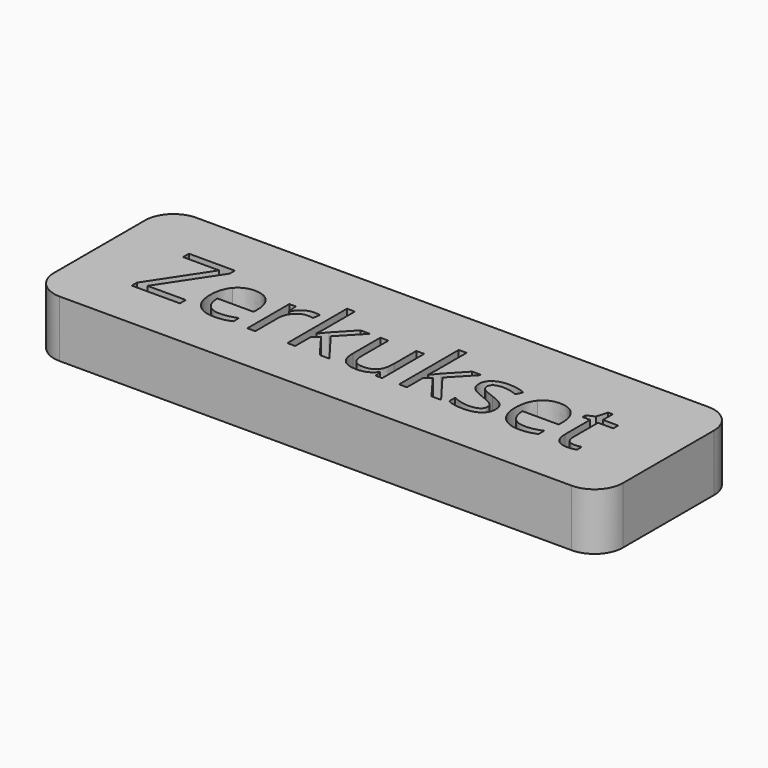
from build123d import *

# Parameters (mm, degrees)
F0_W     = 100
F0_H     = 30
F1_DEPTH = 10
F2_R     = 5
F3_R     = 5


with BuildPart() as f1:
    # F0 (on Top) → F1 (new body)
    with BuildSketch(Plane.XY):
        with Locations((1.7836652696, 33.731531068)):
            Rectangle(F0_W, F0_H)
        Polygon((-29.0621595022, 28.7384054739), (-29.0621595022, 27.4422152223), (-37.52647048, 27.4422152223), (-37.52647048, 28.5632446291), (-30.9916235774, 38.4665693167), (-37.3243618129, 38.4665693167), (-37.3243618129, 39.7546752216), (-29.2480994759, 39.7546752216), (-29.2480994759, 38.6336458148), (-35.7829463786, 28.7384054739), align=None, mode=Mode.SUBTRACT)
        with BuildLine():
            add(Edge.make_bspline(
                [(-21.3955040638, 27.4125726178), (-22.0557257096, 27.2724439419), (-22.9908151427, 27.2724439419)],
                knots=[0, 0, 0, 1, 1, 1], degree=2))
            add(Edge.make_bspline(
                [(-22.9908151427, 27.2724439419), (-25.0361548537, 27.2724439419), (-26.2205116428, 28.5201281135)],
                knots=[0, 0, 0, 1, 1, 1], degree=2))
            add(Edge.make_bspline(
                [(-26.2205116428, 28.5201281135), (-27.404868432, 29.767812285), (-27.404868432, 31.9802284941)],
                knots=[0, 0, 0, 1, 1, 1], degree=2))
            add(Edge.make_bspline(
                [(-27.404868432, 31.9802284941), (-27.404868432, 34.214202961), (-26.305397283, 35.5279092971)],
                knots=[0, 0, 0, 1, 1, 1], degree=2))
            add(Edge.make_bspline(
                [(-26.305397283, 35.5279092971), (-25.205926134, 36.8416156333), (-23.3519159612, 36.8416156333)],
                knots=[0, 0, 0, 1, 1, 1], degree=2))
            add(Edge.make_bspline(
                [(-23.3519159612, 36.8416156333), (-21.6191709887, 36.8416156333), (-20.6086276532, 35.7003753597)],
                knots=[0, 0, 0, 1, 1, 1], degree=2))
            add(Edge.make_bspline(
                [(-20.6086276532, 35.7003753597), (-19.5980843177, 34.5591350862), (-19.5980843177, 32.68895622)],
                knots=[0, 0, 0, 1, 1, 1], degree=2))
            Line((-19.5980843177, 32.68895622), (-19.5980843177, 31.8050676493))
            Line((-19.5980843177, 31.8050676493), (-25.9550755934, 31.8050676493))
            add(Edge.make_bspline(
                [(-25.9550755934, 31.8050676493), (-25.9119590777, 30.1801139659), (-25.1331670139, 29.3379945196)],
                knots=[0, 0, 0, 1, 1, 1], degree=2))
            add(Edge.make_bspline(
                [(-25.1331670139, 29.3379945196), (-24.35437495, 28.4958750734), (-22.9396142804, 28.4958750734)],
                knots=[0, 0, 0, 1, 1, 1], degree=2))
            add(Edge.make_bspline(
                [(-22.9396142804, 28.4958750734), (-21.4493997083, 28.4958750734), (-19.9942173053, 29.1183697681)],
                knots=[0, 0, 0, 1, 1, 1], degree=2))
            Line((-19.9942173053, 29.1183697681), (-19.9942173053, 27.8706855965))
            add(Edge.make_bspline(
                [(-19.9942173053, 27.8706855965), (-20.7352824179, 27.5527012936), (-21.3955040638, 27.4125726178)],
                knots=[0, 0, 0, 1, 1, 1], degree=2))
        make_face(mode=Mode.SUBTRACT)
        with BuildLine():
            add(Edge.make_bspline(
                [(-14.5938737205, 36.3525126589), (-13.8689773012, 36.8416156333), (-13.0012574238, 36.8416156333)],
                knots=[0, 0, 0, 1, 1, 1], degree=2))
            add(Edge.make_bspline(
                [(-13.0012574238, 36.8416156333), (-12.3868470759, 36.8416156333), (-11.8990914926, 36.7392139086)],
                knots=[0, 0, 0, 1, 1, 1], degree=2))
            Line((-11.8990914926, 36.7392139086), (-12.093115813, 35.443023657))
            add(Edge.make_bspline(
                [(-12.093115813, 35.443023657), (-12.6644096453, 35.5696784217), (-13.1036591485, 35.5696784217)],
                knots=[0, 0, 0, 1, 1, 1], degree=2))
            add(Edge.make_bspline(
                [(-13.1036591485, 35.5696784217), (-14.2246885553, 35.5696784217), (-15.0196493125, 34.6601894198)],
                knots=[0, 0, 0, 1, 1, 1], degree=2))
            add(Edge.make_bspline(
                [(-15.0196493125, 34.6601894198), (-15.8146100698, 33.7507004178), (-15.8146100698, 32.3952249572)],
                knots=[0, 0, 0, 1, 1, 1], degree=2))
            Line((-15.8146100698, 32.3952249572), (-15.8146100698, 27.4422152223))
            Line((-15.8146100698, 27.4422152223), (-17.213202046, 27.4422152223))
            Line((-17.213202046, 27.4422152223), (-17.213202046, 36.6718443529))
            Line((-17.213202046, 36.6718443529), (-16.0598352525, 36.6718443529))
            Line((-16.0598352525, 36.6718443529), (-15.8981483188, 34.9633524204))
            Line((-15.8981483188, 34.9633524204), (-15.8307787631, 34.9633524204))
            add(Edge.make_bspline(
                [(-15.8307787631, 34.9633524204), (-15.3187701398, 35.8634096845), (-14.5938737205, 36.3525126589)],
                knots=[0, 0, 0, 1, 1, 1], degree=2))
        make_face(mode=Mode.SUBTRACT)
        with BuildLine():
            Line((-1.2196695234, 36.6718443529), (0.1950911463, 36.6718443529))
            Line((0.1950911463, 36.6718443529), (0.1950911463, 30.6840382425))
            add(Edge.make_bspline(
                [(0.1950911463, 30.6840382425), (0.1950911463, 29.554924489), (0.7084471607, 28.99979935)],
                knots=[0, 0, 0, 1, 1, 1], degree=2))
            add(Edge.make_bspline(
                [(0.7084471607, 28.99979935), (1.2218031751, 28.4446742111), (2.3158847596, 28.4446742111)],
                knots=[0, 0, 0, 1, 1, 1], degree=2))
            add(Edge.make_bspline(
                [(2.3158847596, 28.4446742111), (3.7656775982, 28.4446742111), (4.4339835908, 29.235592795)],
                knots=[0, 0, 0, 1, 1, 1], degree=2))
            add(Edge.make_bspline(
                [(4.4339835908, 29.235592795), (5.1022895833, 30.0265113789), (5.1022895833, 31.8212363427)],
                knots=[0, 0, 0, 1, 1, 1], degree=2))
            Line((5.1022895833, 31.8212363427), (5.1022895833, 36.6718443529))
            Line((5.1022895833, 36.6718443529), (6.5008815596, 36.6718443529))
            Line((6.5008815596, 36.6718443529), (6.5008815596, 27.4422152223))
            Line((6.5008815596, 27.4422152223), (5.347514766, 27.4422152223))
            Line((5.347514766, 27.4422152223), (5.1454060989, 28.6791202649))
            Line((5.1454060989, 28.6791202649), (5.0699521966, 28.6791202649))
            add(Edge.make_bspline(
                [(5.0699521966, 28.6791202649), (4.6414818223, 27.9973403613), (3.8788584518, 27.6348921516)],
                knots=[0, 0, 0, 1, 1, 1], degree=2))
            add(Edge.make_bspline(
                [(3.8788584518, 27.6348921516), (3.1162350813, 27.2724439419), (2.1380291326, 27.2724439419)],
                knots=[0, 0, 0, 1, 1, 1], degree=2))
            add(Edge.make_bspline(
                [(2.1380291326, 27.2724439419), (0.4537902401, 27.2724439419), (-0.3829396416, 28.0727942636)],
                knots=[0, 0, 0, 1, 1, 1], degree=2))
            add(Edge.make_bspline(
                [(-0.3829396416, 28.0727942636), (-1.2196695234, 28.8731445853), (-1.2196695234, 30.6328373801)],
                knots=[0, 0, 0, 1, 1, 1], degree=2))
            Line((-1.2196695234, 30.6328373801), (-1.2196695234, 36.6718443529))
        make_face(mode=Mode.SUBTRACT)
        with BuildLine():
            add(Edge.make_bspline(
                [(23.8930060585, 31.4843885642), (24.4696894553, 30.8780625629), (24.4696894553, 29.9591418232)],
                knots=[0, 0, 0, 1, 1, 1], degree=2))
            add(Edge.make_bspline(
                [(24.4696894553, 29.9591418232), (24.4696894553, 28.6710359182), (23.5103469821, 27.9717399301)],
                knots=[0, 0, 0, 1, 1, 1], degree=2))
            add(Edge.make_bspline(
                [(23.5103469821, 27.9717399301), (22.551004509, 27.2724439419), (20.8155647542, 27.2724439419)],
                knots=[0, 0, 0, 1, 1, 1], degree=2))
            add(Edge.make_bspline(
                [(20.8155647542, 27.2724439419), (18.980418057, 27.2724439419), (17.9537060282, 27.8545169032)],
                knots=[0, 0, 0, 1, 1, 1], degree=2))
            Line((17.9537060282, 27.8545169032), (17.9537060282, 29.1507071548))
            add(Edge.make_bspline(
                [(17.9537060282, 29.1507071548), (18.6193172385, 28.8138593763), (19.3805932179, 28.621182447)],
                knots=[0, 0, 0, 1, 1, 1], degree=2))
            add(Edge.make_bspline(
                [(19.3805932179, 28.621182447), (20.1418691973, 28.4285055177), (20.8505969232, 28.4285055177)],
                knots=[0, 0, 0, 1, 1, 1], degree=2))
            add(Edge.make_bspline(
                [(20.8505969232, 28.4285055177), (21.9446785077, 28.4285055177), (22.5334884245, 28.7774798162)],
                knots=[0, 0, 0, 1, 1, 1], degree=2))
            add(Edge.make_bspline(
                [(22.5334884245, 28.7774798162), (23.1222983413, 29.1264541147), (23.1222983413, 29.8432661874)],
                knots=[0, 0, 0, 1, 1, 1], degree=2))
            add(Edge.make_bspline(
                [(23.1222983413, 29.8432661874), (23.1222983413, 30.382222633), (22.6561010159, 30.7648817093)],
                knots=[0, 0, 0, 1, 1, 1], degree=2))
            add(Edge.make_bspline(
                [(22.6561010159, 30.7648817093), (22.1899036905, 31.1475407857), (20.8317334476, 31.6703285379)],
                knots=[0, 0, 0, 1, 1, 1], degree=2))
            add(Edge.make_bspline(
                [(20.8317334476, 31.6703285379), (19.5436275427, 32.1499997745), (19.0006289237, 32.5084058108)],
                knots=[0, 0, 0, 1, 1, 1], degree=2))
            add(Edge.make_bspline(
                [(19.0006289237, 32.5084058108), (18.4576303048, 32.8668118471), (18.1921942554, 33.3208826525)],
                knots=[0, 0, 0, 1, 1, 1], degree=2))
            add(Edge.make_bspline(
                [(18.1921942554, 33.3208826525), (17.9267582059, 33.7749534579), (17.9267582059, 34.4055324992)],
                knots=[0, 0, 0, 1, 1, 1], degree=2))
            add(Edge.make_bspline(
                [(17.9267582059, 34.4055324992), (17.9267582059, 35.5346462527), (18.8456789456, 36.188130943)],
                knots=[0, 0, 0, 1, 1, 1], degree=2))
            add(Edge.make_bspline(
                [(18.8456789456, 36.188130943), (19.7645996854, 36.8416156333), (21.3626055465, 36.8416156333)],
                knots=[0, 0, 0, 1, 1, 1], degree=2))
            add(Edge.make_bspline(
                [(21.3626055465, 36.8416156333), (22.8528201185, 36.8416156333), (24.2783599171, 36.235289632)],
                knots=[0, 0, 0, 1, 1, 1], degree=2))
            Line((24.2783599171, 36.235289632), (23.7798252049, 35.0980915318))
            add(Edge.make_bspline(
                [(23.7798252049, 35.0980915318), (22.3920123576, 35.6693853641), (21.2628986041, 35.6693853641)],
                knots=[0, 0, 0, 1, 1, 1], degree=2))
            add(Edge.make_bspline(
                [(21.2628986041, 35.6693853641), (20.268523962, 35.6693853641), (19.7632522942, 35.3581380168)],
                knots=[0, 0, 0, 1, 1, 1], degree=2))
            add(Edge.make_bspline(
                [(19.7632522942, 35.3581380168), (19.2579806265, 35.0468906695), (19.2579806265, 34.4998498772)],
                knots=[0, 0, 0, 1, 1, 1], degree=2))
            add(Edge.make_bspline(
                [(19.2579806265, 34.4998498772), (19.2579806265, 34.1279699297), (19.4479627736, 33.8679234448)],
                knots=[0, 0, 0, 1, 1, 1], degree=2))
            add(Edge.make_bspline(
                [(19.4479627736, 33.8679234448), (19.6379449206, 33.6078769598), (20.0583309482, 33.3720835148)],
                knots=[0, 0, 0, 1, 1, 1], degree=2))
            add(Edge.make_bspline(
                [(20.0583309482, 33.3720835148), (20.4787169757, 33.1362900699), (21.6752002849, 32.68895622)],
                knots=[0, 0, 0, 1, 1, 1], degree=2))
            add(Edge.make_bspline(
                [(21.6752002849, 32.68895622), (23.3163226617, 32.0907145654), (23.8930060585, 31.4843885642)],
                knots=[0, 0, 0, 1, 1, 1], degree=2))
        make_face(mode=Mode.SUBTRACT)
        with BuildLine():
            add(Edge.make_bspline(
                [(32.2387466184, 27.4125726178), (31.5785249725, 27.2724439419), (30.6434355394, 27.2724439419)],
                knots=[0, 0, 0, 1, 1, 1], degree=2))
            add(Edge.make_bspline(
                [(30.6434355394, 27.2724439419), (28.5980958284, 27.2724439419), (27.4137390393, 28.5201281135)],
                knots=[0, 0, 0, 1, 1, 1], degree=2))
            add(Edge.make_bspline(
                [(27.4137390393, 28.5201281135), (26.2293822501, 29.767812285), (26.2293822501, 31.9802284941)],
                knots=[0, 0, 0, 1, 1, 1], degree=2))
            add(Edge.make_bspline(
                [(26.2293822501, 31.9802284941), (26.2293822501, 34.214202961), (27.3288533991, 35.5279092971)],
                knots=[0, 0, 0, 1, 1, 1], degree=2))
            add(Edge.make_bspline(
                [(27.3288533991, 35.5279092971), (28.4283245481, 36.8416156333), (30.2823347209, 36.8416156333)],
                knots=[0, 0, 0, 1, 1, 1], degree=2))
            add(Edge.make_bspline(
                [(30.2823347209, 36.8416156333), (32.0150796934, 36.8416156333), (33.0256230289, 35.7003753597)],
                knots=[0, 0, 0, 1, 1, 1], degree=2))
            add(Edge.make_bspline(
                [(33.0256230289, 35.7003753597), (34.0361663644, 34.5591350862), (34.0361663644, 32.68895622)],
                knots=[0, 0, 0, 1, 1, 1], degree=2))
            Line((34.0361663644, 32.68895622), (34.0361663644, 31.8050676493))
            Line((34.0361663644, 31.8050676493), (27.6791750887, 31.8050676493))
            add(Edge.make_bspline(
                [(27.6791750887, 31.8050676493), (27.7222916044, 30.1801139659), (28.5010836682, 29.3379945196)],
                knots=[0, 0, 0, 1, 1, 1], degree=2))
            add(Edge.make_bspline(
                [(28.5010836682, 29.3379945196), (29.2798757321, 28.4958750734), (30.6946364018, 28.4958750734)],
                knots=[0, 0, 0, 1, 1, 1], degree=2))
            add(Edge.make_bspline(
                [(30.6946364018, 28.4958750734), (32.1848509738, 28.4958750734), (33.6400333769, 29.1183697681)],
                knots=[0, 0, 0, 1, 1, 1], degree=2))
            Line((33.6400333769, 29.1183697681), (33.6400333769, 27.8706855965))
            add(Edge.make_bspline(
                [(33.6400333769, 27.8706855965), (32.8989682642, 27.5527012936), (32.2387466184, 27.4125726178)],
                knots=[0, 0, 0, 1, 1, 1], degree=2))
        make_face(mode=Mode.SUBTRACT)
        with BuildLine():
            add(Edge.make_bspline(
                [(38.3154805423, 28.8744919764), (38.7116135298, 28.4285055177), (39.4014777801, 28.4285055177)],
                knots=[0, 0, 0, 1, 1, 1], degree=2))
            add(Edge.make_bspline(
                [(39.4014777801, 28.4285055177), (39.7733577276, 28.4285055177), (40.1182898528, 28.4824011623)],
                knots=[0, 0, 0, 1, 1, 1], degree=2))
            add(Edge.make_bspline(
                [(40.1182898528, 28.4824011623), (40.4632219779, 28.5362968068), (40.665330645, 28.5955820158)],
                knots=[0, 0, 0, 1, 1, 1], degree=2))
            Line((40.665330645, 28.5955820158), (40.665330645, 27.5257534714))
            add(Edge.make_bspline(
                [(40.665330645, 27.5257534714), (40.4389689379, 27.4179621822), (39.9970246525, 27.3452030621)],
                knots=[0, 0, 0, 1, 1, 1], degree=2))
            add(Edge.make_bspline(
                [(39.9970246525, 27.3452030621), (39.5550803671, 27.2724439419), (39.199369113, 27.2724439419)],
                knots=[0, 0, 0, 1, 1, 1], degree=2))
            add(Edge.make_bspline(
                [(39.199369113, 27.2724439419), (36.5234503607, 27.2724439419), (36.5234503607, 30.0938809346)],
                knots=[0, 0, 0, 1, 1, 1], degree=2))
            Line((36.5234503607, 30.0938809346), (36.5234503607, 35.585847115))
            Line((36.5234503607, 35.585847115), (35.2003122868, 35.585847115))
            Line((35.2003122868, 35.585847115), (35.2003122868, 36.259542672))
            Line((35.2003122868, 36.259542672), (36.5234503607, 36.8416156333))
            Line((36.5234503607, 36.8416156333), (37.1109128864, 38.8115014419))
            Line((37.1109128864, 38.8115014419), (37.9193475548, 38.8115014419))
            Line((37.9193475548, 38.8115014419), (37.9193475548, 36.6718443529))
            Line((37.9193475548, 36.6718443529), (40.5979610893, 36.6718443529))
            Line((40.5979610893, 36.6718443529), (40.5979610893, 35.585847115))
            Line((40.5979610893, 35.585847115), (37.9193475548, 35.585847115))
            Line((37.9193475548, 35.585847115), (37.9193475548, 30.1531661436))
            add(Edge.make_bspline(
                [(37.9193475548, 30.1531661436), (37.9193475548, 29.3204784352), (38.3154805423, 28.8744919764)],
                knots=[0, 0, 0, 1, 1, 1], degree=2))
        make_face(mode=Mode.SUBTRACT)
        with BuildLine():
            Line((-8.8566823573, 32.1661684678), (-8.7893128016, 32.1661684678))
            add(Edge.make_bspline(
                [(-8.7893128016, 32.1661684678), (-8.4282119831, 32.6808718734), (-7.6871468704, 33.5135595818)],
                knots=[0, 0, 0, 1, 1, 1], degree=2))
            Line((-7.6871468704, 33.5135595818), (-4.7067177263, 36.6718443529))
            Line((-4.7067177263, 36.6718443529), (-3.0467318739, 36.6718443529))
            Line((-3.0467318739, 36.6718443529), (-6.7870896063, 32.7401570824))
            Line((-6.7870896063, 32.7401570824), (-2.7853379978, 27.4422152223))
            Line((-2.7853379978, 27.4422152223), (-4.4776612369, 27.4422152223))
            Line((-4.4776612369, 27.4422152223), (-7.7383477327, 31.8050676493))
            Line((-7.7383477327, 31.8050676493), (-8.7893128016, 30.8942312563))
            Line((-8.7893128016, 30.8942312563), (-8.7893128016, 27.4422152223))
            Line((-8.7893128016, 27.4422152223), (-10.1717360845, 27.4422152223))
            Line((-10.1717360845, 27.4422152223), (-10.1717360845, 40.5469411966))
            Line((-10.1717360845, 40.5469411966), (-8.7893128016, 40.5469411966))
            Line((-8.7893128016, 40.5469411966), (-8.7893128016, 33.5970978308))
            add(Edge.make_bspline(
                [(-8.7893128016, 33.5970978308), (-8.7893128016, 33.1362900699), (-8.8566823573, 32.1661684678)],
                knots=[0, 0, 0, 1, 1, 1], degree=2))
        make_face(mode=Mode.SUBTRACT)
        with BuildLine():
            Line((10.7801957375, 32.1661684678), (10.8475652932, 32.1661684678))
            add(Edge.make_bspline(
                [(10.8475652932, 32.1661684678), (11.2086661117, 32.6808718734), (11.9497312244, 33.5135595818)],
                knots=[0, 0, 0, 1, 1, 1], degree=2))
            Line((11.9497312244, 33.5135595818), (14.9301603685, 36.6718443529))
            Line((14.9301603685, 36.6718443529), (16.5901462209, 36.6718443529))
            Line((16.5901462209, 36.6718443529), (12.8497884885, 32.7401570824))
            Line((12.8497884885, 32.7401570824), (16.851540097, 27.4422152223))
            Line((16.851540097, 27.4422152223), (15.1592168579, 27.4422152223))
            Line((15.1592168579, 27.4422152223), (11.8985303621, 31.8050676493))
            Line((11.8985303621, 31.8050676493), (10.8475652932, 30.8942312563))
            Line((10.8475652932, 30.8942312563), (10.8475652932, 27.4422152223))
            Line((10.8475652932, 27.4422152223), (9.4651420103, 27.4422152223))
            Line((9.4651420103, 27.4422152223), (9.4651420103, 40.5469411966))
            Line((9.4651420103, 40.5469411966), (10.8475652932, 40.5469411966))
            Line((10.8475652932, 40.5469411966), (10.8475652932, 33.5970978308))
            add(Edge.make_bspline(
                [(10.8475652932, 33.5970978308), (10.8475652932, 33.1362900699), (10.7801957375, 32.1661684678)],
                knots=[0, 0, 0, 1, 1, 1], degree=2))
        make_face(mode=Mode.SUBTRACT)
    extrude(amount=F1_DEPTH)

    # F2
    f2_edges = [f1.edges().sort_by_distance(p)[0] for p in [
        (51.783665, 18.731531, 5),
    ]]
    fillet(f2_edges, radius=F2_R)

    # F3
    f3_edges = [f1.edges().sort_by_distance(p)[0] for p in [
        (51.783665, 48.731531, 5),
        (-48.216335, 48.731531, 5),
        (-48.216335, 18.731531, 5),
    ]]
    fillet(f3_edges, radius=F3_R)


solid = f1.part
